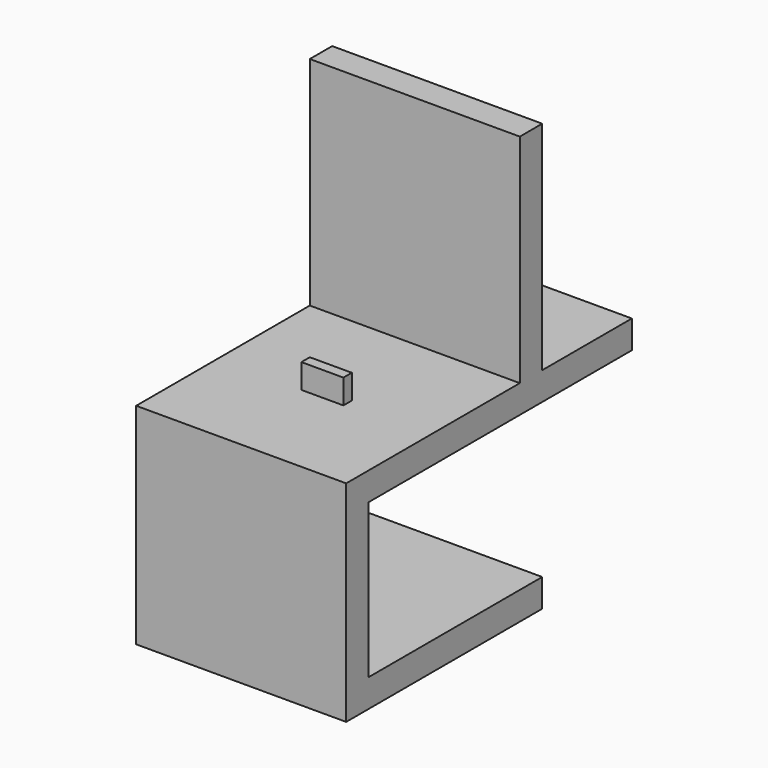
from build123d import *

# Parameters (mm, degrees)
F0_W     = 62
F0_H     = 8
F1_DEPTH = 60
F2_W     = 12
F2_H     = 3
F3_DEPTH = 15
F4_W     = 8
F4_H     = 62
F4_W_2   = 32
F4_H_2   = 8
F5_DEPTH = 60
F6_W     = 12
F6_H     = 3
F7_DEPTH = 15


with BuildPart() as f1:
    # F0 (on Right) → F1 (new body)
    with BuildSketch(Plane.YZ):
        Polygon((129.916325, 0), (129.916325, 70), (121.916325, 70), (121.916325, 8), (121.916325, 0), align=None)
        Polygon((121.916325, 0), (121.916325, 8), (59.916325, 8), (59.916325, 0), (67.916325, 0), align=None)
        Polygon((67.916325, -44), (67.916325, 0), (59.916325, 0), (59.916325, -52), (67.916325, -52), align=None)
        with Locations((98.916325, -48)):
            Rectangle(F0_W, F0_H)
    extrude(amount=F1_DEPTH)

    # F2 (on Top) → F3 (join)
    with BuildSketch(Plane.XY):
        with Locations((30, 90.416325)):
            Rectangle(F2_W, F2_H)
    extrude(amount=F3_DEPTH)

    # F4 (on Right) → F5 (join)
    with BuildSketch(Plane.YZ):
        with Locations((125.916325, 39)):
            Rectangle(F4_W, F4_H)
        with Locations((145.916325, 4)):
            Rectangle(F4_W_2, F4_H_2)
        with Locations((125.916325, 4)):
            Rectangle(F4_W, F4_H_2)
        Polygon((121.916325, 0), (121.916325, 8), (59.916325, 8), (59.916325, -52), (129.916325, -52), (129.916325, -44), (67.916325, -44), (67.916325, 0), align=None)
    extrude(amount=F5_DEPTH)

    # F6 (on Top) → F7 (join)
    with BuildSketch(Plane.XY):
        with Locations((30, 158.416325)):
            Rectangle(F6_W, F6_H)
    extrude(amount=F7_DEPTH)


solid = f1.part
